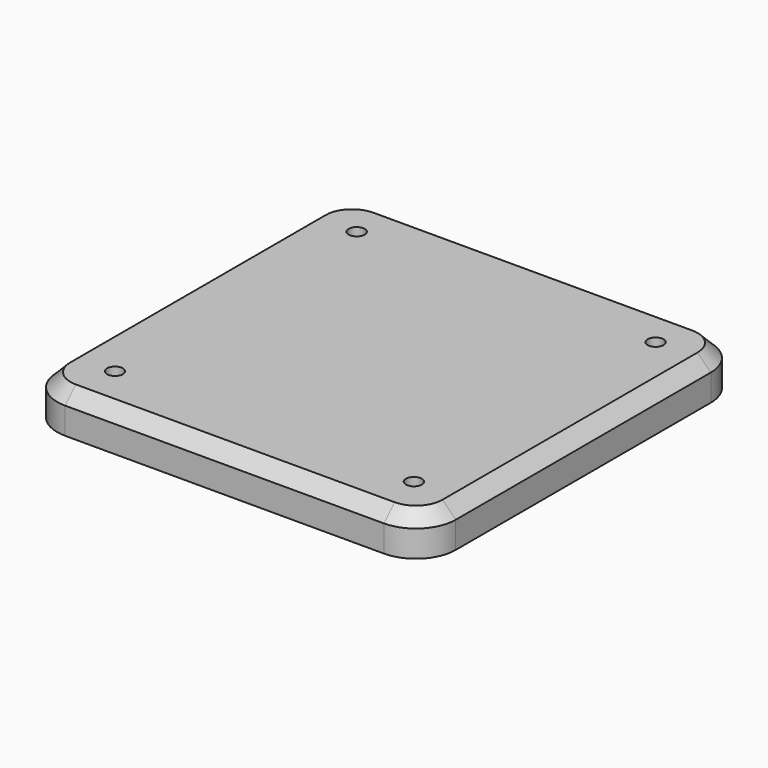
from build123d import *

# Parameters (mm, degrees)
F1_DEPTH = 30
F2_SIZE  = 10
F3_R     = 6
F4_DEPTH = 10
F5_R     = 6
F6_DEPTH = 10


with BuildPart() as f1:
    # F0 (on Top) → F1 (new body)
    with BuildSketch(Plane.XY):
        with BuildLine():
            ThreePointArc((150, 120), (141.213203, 141.213203), (120, 150))
            Line((120, 150), (-120, 150))
            ThreePointArc((-120, 150), (-141.213203, 141.213203), (-150, 120))
            Line((-150, 120), (-150, -120))
            ThreePointArc((-150, -120), (-141.213203, -141.213203), (-120, -150))
            Line((-120, -150), (120, -150))
            ThreePointArc((120, -150), (141.213203, -141.213203), (150, -120))
            Line((150, -120), (150, 120))
        make_face()
    extrude(amount=F1_DEPTH)

    # F2
    f2_edges = [f1.edges().sort_by_distance(p)[0] for p in [
        (141.213203, 141.213203, 30),
        (0, 150, 30),
        (-141.213203, 141.213203, 30),
        (-150, 0, 30),
        (-141.213203, -141.213203, 30),
        (0, -150, 30),
        (141.213203, -141.213203, 30),
        (150, 0, 30),
    ]]
    chamfer(f2_edges, length=F2_SIZE)

    # F3 (on face) → F4 (cut)
    with BuildSketch(Plane.XY.offset(30)):
        with Locations((112.5, 114.919368)):
            Circle(F3_R)
        with Locations((-112.5, 114.919368)):
            Circle(F3_R)
        with Locations((-112.5, -112.5)):
            Circle(F3_R)
        with Locations((112.5, -112.5)):
            Circle(F3_R)
    extrude(amount=-F4_DEPTH, mode=Mode.SUBTRACT)

    # F5 (on face) → F6 (cut)
    with BuildSketch(Plane(origin=(0, 0, 0), x_dir=(1, 0, 0), z_dir=(0, 0, -1))):
        with Locations((-125, -125)):
            Circle(F5_R)
        with Locations((-125, 125)):
            Circle(F5_R)
        with Locations((125, -125)):
            Circle(F5_R)
        with Locations((125, 125)):
            Circle(F5_R)
    extrude(amount=-F6_DEPTH, mode=Mode.SUBTRACT)


solid = f1.part
